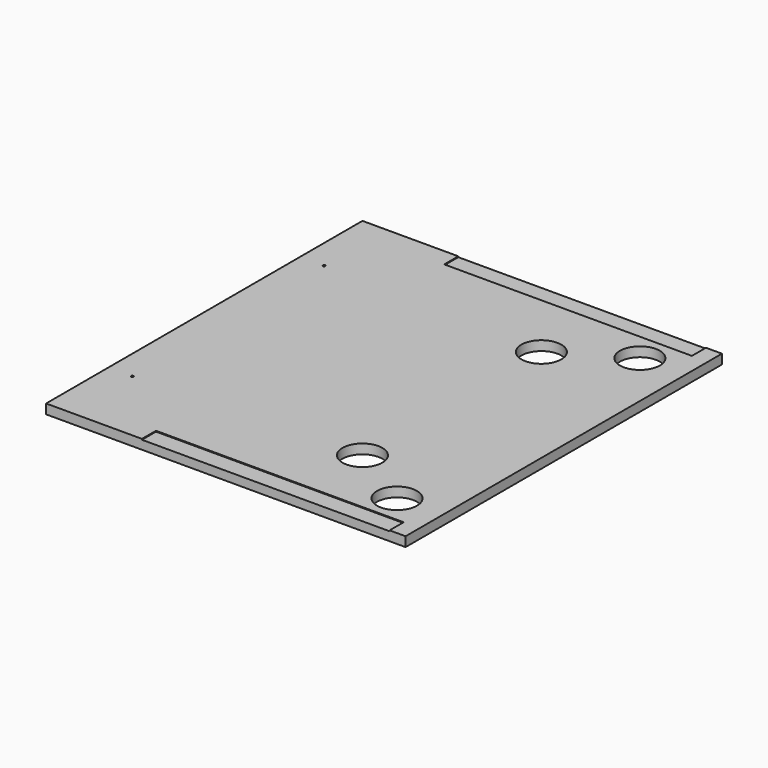
from build123d import *

# Parameters (mm, degrees)
PAD_DEPTH       = 12
SKETCH004_R     = 25
POCKET001_DEPTH = 20
SKETCH005_R     = 1.5
POCKET_DEPTH    = 12.001
SKETCH006_W     = 310
SKETCH006_H     = 22
POCKET002_DEPTH = 1


with BuildPart() as part:
    # Sketch (on Part) → Pad (new body)
    with BuildSketch(Plane.XY):
        Polygon((0, 413.879036), (0, 495), (450, 495), (450, 0), (0, 0), align=None)
    extrude(amount=-PAD_DEPTH)

    # Sketch004 → Pocket001 (cut)
    with BuildSketch(Plane.XY):
        with Locations((393.308105, 437.5)):
            Circle(SKETCH004_R)
        with Locations((393.308105, 57.5)):
            Circle(SKETCH004_R)
        with Locations((310, 107.5)):
            Circle(SKETCH004_R)
        with Locations((310, 387.5)):
            Circle(SKETCH004_R)
    extrude(amount=-POCKET001_DEPTH, mode=Mode.SUBTRACT)

    # Sketch005 → Pocket (cut, through all)
    with BuildSketch(Plane.XY):
        with Locations((30, 397.5)):
            Circle(SKETCH005_R)
        with Locations((30, 97.5)):
            Circle(SKETCH005_R)
    extrude(amount=-POCKET_DEPTH, mode=Mode.SUBTRACT)

    # Sketch006 → Pocket002 (cut)
    with BuildSketch(Plane.XY):
        with Locations((275, 11)):
            Rectangle(SKETCH006_W, SKETCH006_H)
        with Locations((275, 484)):
            Rectangle(SKETCH006_W, SKETCH006_H)
    extrude(amount=-POCKET002_DEPTH, mode=Mode.SUBTRACT)


solid = part.part
